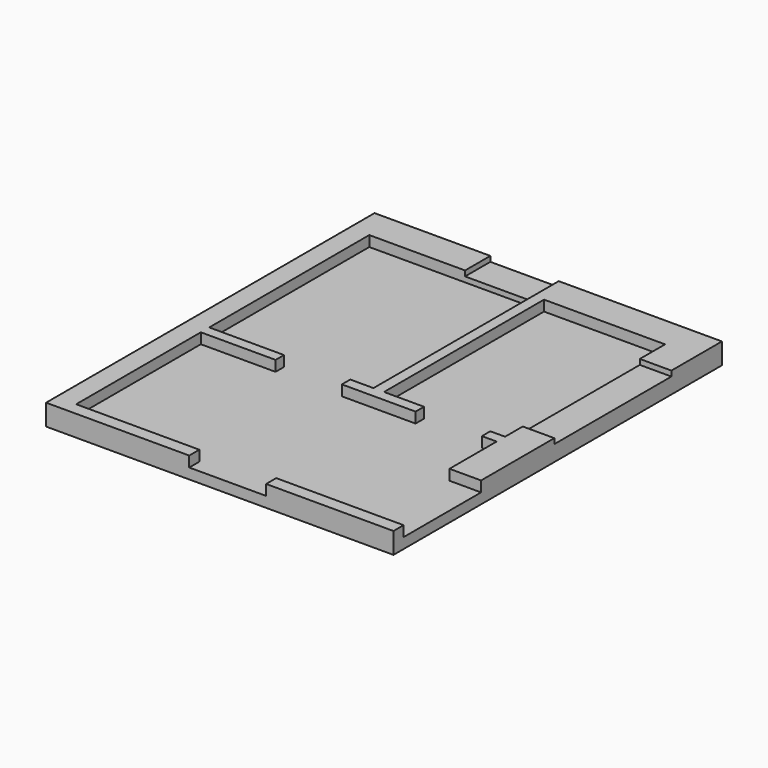
from build123d import *

# Parameters (mm, degrees)
F0_W     = 3300
F0_H     = 3900
F1_DEPTH = 100
F2_W     = 3300
F2_H     = 3900
F2_W_2   = 2810
F2_H_2   = 1480
F2_W_3   = 1560
F2_H_3   = 1900
F2_W_4   = 1150
F3_DEPTH = 100
F4_W     = 630
F4_H     = 100
F4_W_2   = 300
F4_H_2   = 920
F4_W_3   = 730
F4_H_3   = 120
F5_DEPTH = 100
F4_W_4   = 650
F4_H_4   = 300
F4_H_5   = 1390
F6_DEPTH = 50


with BuildPart() as f1:
    # F0 (on Top) → F1 (new body)
    with BuildSketch(Plane.XY):
        with Locations((-1650, -1950)):
            Rectangle(F0_W, F0_H)
    extrude(amount=-F1_DEPTH)

    # F2 (on face) → F3 (join)
    with BuildSketch(Plane.XY):
        with Locations((-1650, -1950)):
            Rectangle(F2_W, F2_H)
        with Locations((-1705, -3040)):
            Rectangle(F2_W_2, F2_H_2, mode=Mode.SUBTRACT)
        with Locations((-2330, -1250)):
            Rectangle(F2_W_3, F2_H_3, mode=Mode.SUBTRACT)
        with Locations((-875, -1250)):
            Rectangle(F2_W_4, F2_H_3, mode=Mode.SUBTRACT)
    extrude(amount=F3_DEPTH)

    # F4 (on face) → F5 (cut, through all)
    with BuildSketch(Plane.XY.offset(100)):
        with Locations((-2085, -2250)):
            Rectangle(F4_W, F4_H)
        with Locations((-755, -2250)):
            Rectangle(F4_W, F4_H)
        with Locations((-150, -3320)):
            Rectangle(F4_W_2, F4_H_2)
        with Locations((-1575, -3840)):
            Rectangle(F4_W_3, F4_H_3)
    extrude(amount=-F5_DEPTH, mode=Mode.SUBTRACT)

    # F4 (on face) → F6 (cut)
    with BuildSketch(Plane.XY.offset(100)):
        with Locations((-1875, -150)):
            Rectangle(F4_W_4, F4_H_4)
        with Locations((-150, -1295)):
            Rectangle(F4_W_2, F4_H_5)
    extrude(amount=-F6_DEPTH, mode=Mode.SUBTRACT)


solid = f1.part
